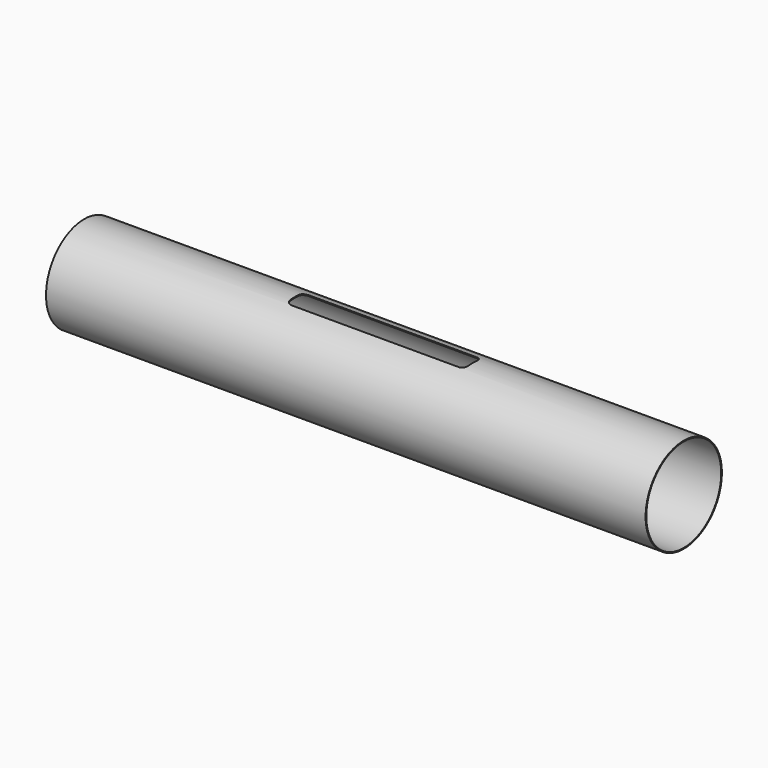
from build123d import *

# Parameters (mm, degrees)
F0_R     = 22.225
F0_R_2   = 21.828125
F1_DEPTH = 139.7
F3_DEPTH = 25.4


with BuildPart() as f1:
    # F0 (on Right) → F1 (new body, symmetric)
    with BuildSketch(Plane.YZ):
        Circle(F0_R)
        Circle(F0_R_2, mode=Mode.SUBTRACT)
    extrude(amount=F1_DEPTH, both=True)

    # F2 (on Top) → F3 (cut)
    with BuildSketch(Plane.XY):
        with BuildLine():
            Line((38.989, 5.08), (-38.989, 5.08))
            ThreePointArc((-38.989, 5.08), (-40.785051, 4.336051), (-41.529, 2.54))
            Line((-41.529, 2.54), (-41.529, -2.54))
            ThreePointArc((-41.529, -2.54), (-40.785051, -4.336051), (-38.989, -5.08))
            Line((-38.989, -5.08), (38.989, -5.08))
            ThreePointArc((38.989, -5.08), (40.785051, -4.336051), (41.529, -2.54))
            Line((41.529, -2.54), (41.529, 2.54))
            ThreePointArc((41.529, 2.54), (40.785051, 4.336051), (38.989, 5.08))
        make_face()
    extrude(amount=F3_DEPTH, mode=Mode.SUBTRACT)


solid = f1.part
